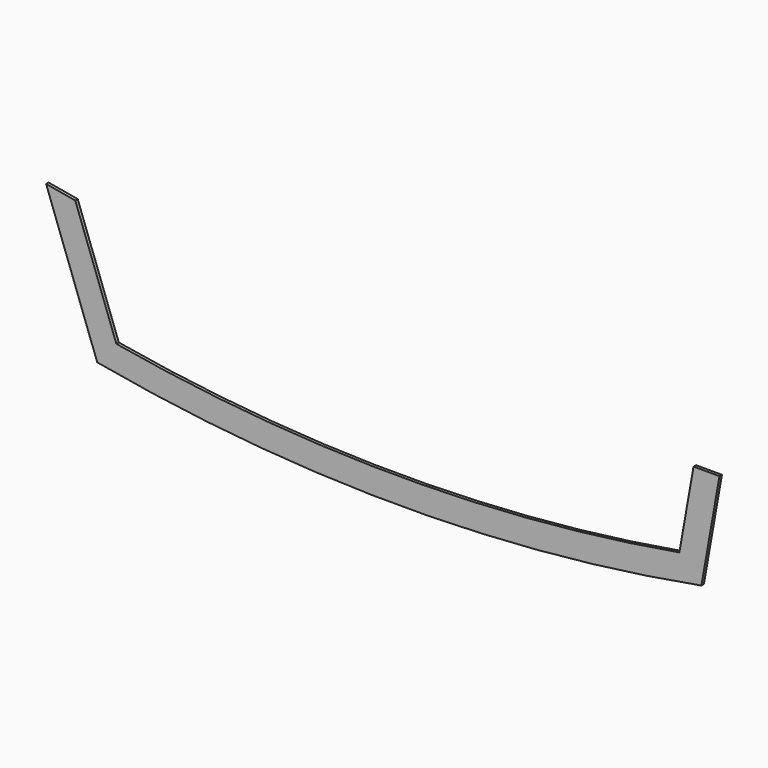
from build123d import *

# Parameters (mm, degrees)
F2_DEPTH = 6


with BuildPart() as f2:
    # F1 (on Front) → F2 (new body, symmetric)
    with BuildSketch(Plane.XZ):
        with BuildLine():
            Line((-1084.126008, -161.892822), (-1159.007441, -250))
            ThreePointArc((-1159.007441, -250), (23.455407, -358.460153), (1205.918255, -250))
            Line((1205.918255, -250), (1119.557507, -163.89909))
            ThreePointArc((1119.557507, -163.89909), (17.628749, -258.457501), (-1084.126008, -161.892822))
        make_face()
        Polygon((-1244.906732, 279.848588), (-1359.19107, 300), (-1159.007441, -250), (-1084.126008, -161.892822), align=None)
        Polygon((1119.557507, -163.89909), (1205.918255, -250), (1276.449047, 150), (1174.906386, 150), align=None)
    extrude(amount=F2_DEPTH, both=True)


solid = f2.part
